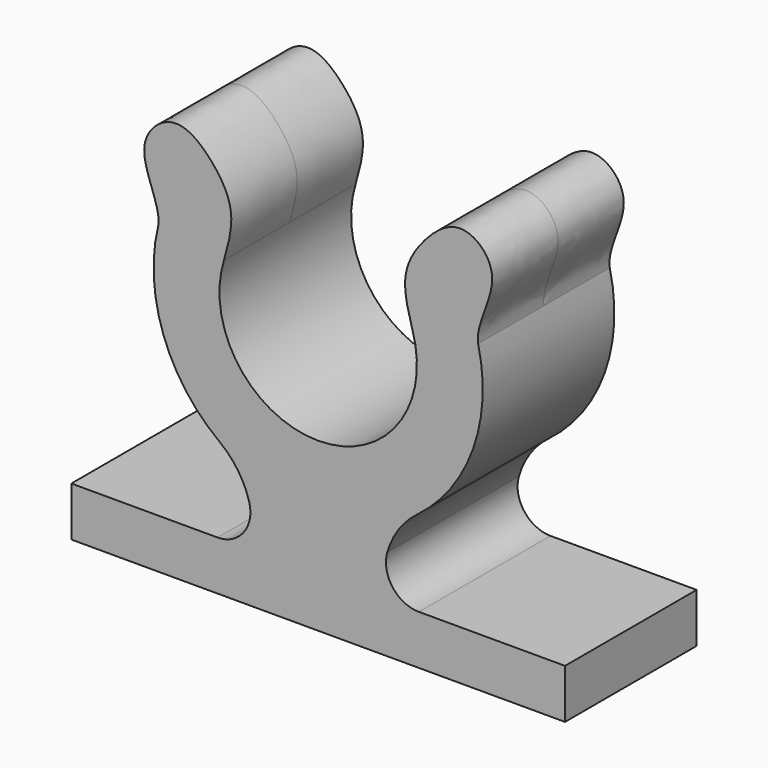
from build123d import *

# Parameters (mm, degrees)
F1_DEPTH = 5


with BuildPart() as f1:
    # F0 (on Front) → F1 (new body, symmetric)
    with BuildSketch(Plane.XZ):
        with BuildLine():
            ThreePointArc((5.7253875111, 1.7944185263), (0, -6), (-5.7253875111, 1.7944185263))
            add(Edge.make_bspline(
                [(-5.7253875111, 1.7944185263), (-5.4896120762, 2.6313944905), (-4.9203405683, 4.5325264765), (-6.318376289, 6.9149490158), (-8.7278646291, 8.8886942635), (-11.5714100569, 6.2734194076), (-9.5409241578, 3.4262358193), (-9.7193599773, 2.3524543848)],
                knots=[0, 0, 0, 0, 0.1929490437, 0.3852999795, 0.5752832174, 0.7652782217, 1, 1, 1, 1], degree=3))
            ThreePointArc((-9.7193599773, 2.3524543848), (-9.4110518791, -3.3811392354), (-6, -8))
            ThreePointArc((-6, -8), (-4.8864960155, -9.1576268772), (-4.1975041795, -10.6085856499))
            ThreePointArc((-4.1975041795, -10.6085856499), (-4.5195760741, -12.3665814794), (-6.1185025077, -13.1651513899))
            Line((-6.1185025077, -13.1651513899), (-15, -13.1651513899))
            Line((-15, -13.1651513899), (-15, -16.1651513899))
            Line((-15, -16.1651513899), (15, -16.1651513899))
            Line((15, -16.1651513899), (15, -13.1651513899))
            Line((15, -13.1651513899), (6.1185025077, -13.1651513899))
            ThreePointArc((6.1185025077, -13.1651513899), (4.5195760741, -12.3665814794), (4.1975041795, -10.6085856499))
            ThreePointArc((4.1975041795, -10.6085856499), (4.8864960155, -9.1576268772), (6, -8))
            ThreePointArc((6, -8), (9.4110518791, -3.3811392354), (9.7193599773, 2.3524543848))
            add(Edge.make_bspline(
                [(5.7253875111, 1.7944185263), (5.4896120762, 2.6313944905), (4.9203405683, 4.5325264765), (6.318376289, 6.9149490158), (8.7278646291, 8.8886942635), (11.5714100569, 6.2734194076), (9.5409241578, 3.4262358193), (9.7193599773, 2.3524543848)],
                knots=[0, 0, 0, 0, 0.1929490437, 0.3852999795, 0.5752832174, 0.7652782217, 1, 1, 1, 1], degree=3))
        make_face()
    extrude(amount=F1_DEPTH, both=True)


solid = f1.part
